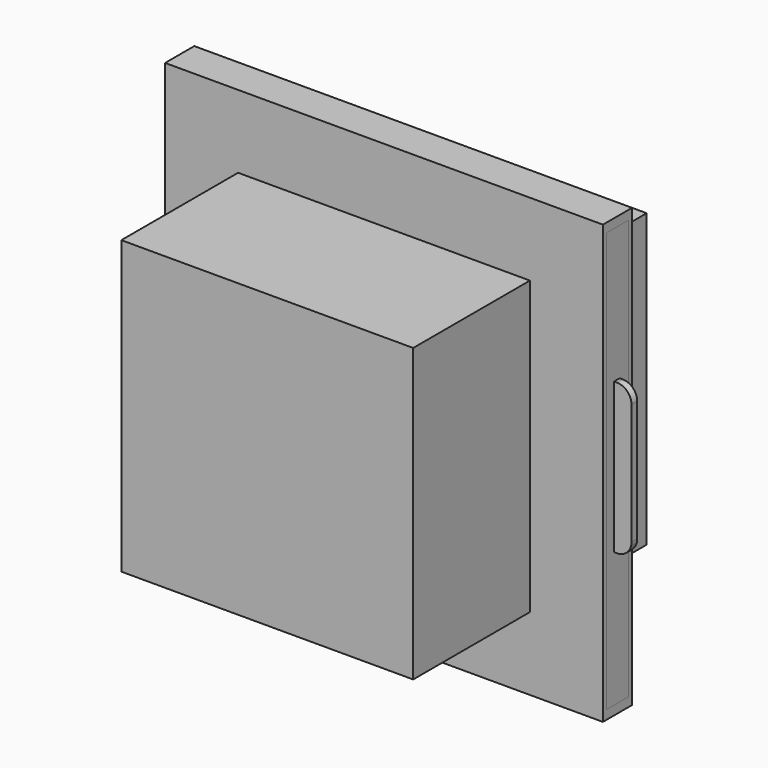
from build123d import *

# Parameters (mm, degrees)
F1_W      = 152.4
F1_H      = 152.4
F2_DEPTH  = 12.7
F3_W      = 25.4
F3_H      = 25.4
F4_DEPTH  = 2.54
F6_W      = 9.525
F6_H      = 146.05
F6_W_2    = 7.9
F6_H_2    = 142.3924
F7_DEPTH  = 146.05
F8_W      = 101.6
F8_H      = 50.8
F9_DEPTH  = 25.4
F10_W     = 97.179114
F10_H     = 21.567774
F11_DEPTH = 46.99
F12_DEPTH = 146.05
F13_W     = 138.655322
F13_H     = 140.86758
F14_DEPTH = 9.2456
F16_DEPTH = 8.6106
F17_W     = 15.284132
F17_H     = 2.453639
F17_R     = 0.679113
F17_R_2   = 0.594481
F17_R_3   = 0.675254
F17_R_4   = 0.596675
F17_R_5   = 0.873496
F18_DEPTH = 6.0706
F19_W     = 2.473427
F19_H     = 52.295324
F20_DEPTH = 6.096
F21_R     = 5.08
F22_W     = 101.6
F22_H     = 101.6
F23_DEPTH = 50.8


with BuildPart() as f2:
    # F1 (on Front) → F2 (new body)
    with BuildSketch(Plane.XZ):
        Rectangle(F1_W, F1_H)
    extrude(amount=-F2_DEPTH)

    # F3 (on face) → F4 (join)
    with BuildSketch(Plane(origin=(0, 12.7, 0), x_dir=(-1, 0, 0), z_dir=(0, 1, 0))):
        with Locations((-43.053001, 37.239678)):
            Rectangle(F3_W, F3_H)
        with Locations((41.80052, 37.239678)):
            Rectangle(F3_W, F3_H)
    extrude(amount=F4_DEPTH)

    # F6 (on face) → F7 (cut)
    with BuildSketch(Plane.YZ.offset(76.2)):
        with Locations((6.35, 0)):
            Rectangle(F6_W, F6_H)
        with Locations((6.35, 0)):
            Rectangle(F6_W_2, F6_H_2, mode=Mode.SUBTRACT)
        with Locations((6.35, 0)):
            Rectangle(F6_W_2, F6_H_2)
    extrude(amount=-F7_DEPTH, mode=Mode.SUBTRACT)

    # F8 (on face) → F9 (join)
    with BuildSketch(Plane.XZ):
        with Locations((0, -25.4)):
            Rectangle(F8_W, F8_H)
    extrude(amount=F9_DEPTH)

    # F10 (on face) → F11 (cut)
    with BuildSketch(Plane.XY):
        with Locations((0, -12.7)):
            Rectangle(F10_W, F10_H)
    extrude(amount=-F11_DEPTH, mode=Mode.SUBTRACT)


with BuildPart() as f12:
    # F6 (on face) → F12 (new body)
    with BuildSketch(Plane.YZ.offset(76.2)):
        with Locations((6.35, 0)):
            Rectangle(F6_W, F6_H)
        with Locations((6.35, 0)):
            Rectangle(F6_W_2, F6_H_2, mode=Mode.SUBTRACT)
        with Locations((6.35, 0)):
            Rectangle(F6_W_2, F6_H_2)
    extrude(amount=-F12_DEPTH)

    # F13 (on face) → F14 (cut)
    with BuildSketch(Plane.XZ.offset(-1.5875)):
        with Locations((-0.522339, 2.59121)):
            Rectangle(F13_W, F13_H)
    extrude(amount=-F14_DEPTH, mode=Mode.SUBTRACT)

    # F15 (on face) → F16 (join)
    with BuildSketch(Plane.XY.offset(-67.84258)):
        with BuildLine():
            Line((6.601052, 7.846441), (-7.64573, 7.846441))
            ThreePointArc((-7.64573, 7.846441), (-8.992768, 7.288479), (-9.55073, 5.941441))
            Line((-9.55073, 5.941441), (-9.55073, 4.472558))
            Line((-9.55073, 4.472558), (8.506052, 4.472558))
            Line((8.506052, 4.472558), (8.506052, 5.941441))
            ThreePointArc((8.506052, 5.941441), (7.94809, 7.288479), (6.601052, 7.846441))
        make_face()
    extrude(amount=F16_DEPTH)

    # F17 (on face) → F18 (cut)
    with BuildSketch(Plane.XY.offset(-59.23198)):
        with Locations((-0.618114, 6.163291)):
            Rectangle(F17_W, F17_H)
        with Locations((-5.908775, 6.265525)):
            Circle(F17_R, mode=Mode.SUBTRACT)
        with Locations((-3.404018, 6.16329)):
            Circle(F17_R_2, mode=Mode.SUBTRACT)
        with Locations((-0.618114, 6.16329)):
            Circle(F17_R_3, mode=Mode.SUBTRACT)
        with Locations((1.605497, 6.16329)):
            Circle(F17_R_4, mode=Mode.SUBTRACT)
        with Locations((4.212489, 6.16329)):
            Circle(F17_R_5, mode=Mode.SUBTRACT)
    extrude(amount=-F18_DEPTH, mode=Mode.SUBTRACT)

    # F19 (on face) → F20 (join)
    with BuildSketch(Plane.YZ.offset(76.2)):
        with Locations((6.08627, 0)):
            Rectangle(F19_W, F19_H)
    extrude(amount=F20_DEPTH)

    # F21
    f21_edges = [f12.edges().sort_by_distance(p)[0] for p in [
        (82.296, 6.08627, 26.147662),
        (82.296, 6.08627, -26.147662),
    ]]
    fillet(f21_edges, radius=F21_R)


with BuildPart() as f23:
    # F22 (on Front) → F23 (new body, symmetric)
    with BuildSketch(Plane.XZ):
        Rectangle(F22_W, F22_H)
    extrude(amount=F23_DEPTH, both=True)


solid = Compound([f2.part, f12.part, f23.part])
